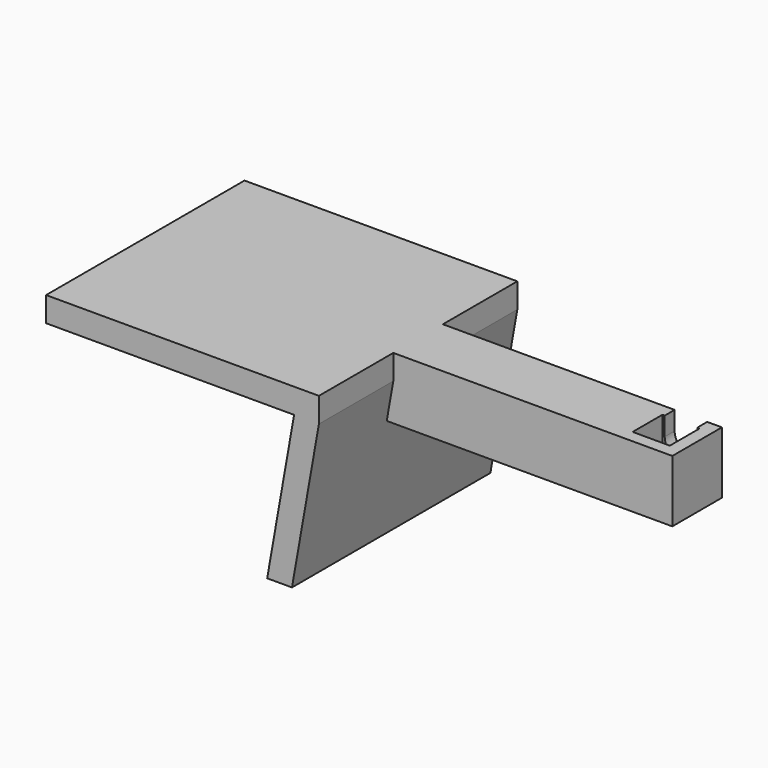
from build123d import *

# Parameters (mm, degrees)
PAD001_DEPTH    = 20
SKETCH004_W     = 39
SKETCH004_H     = 10
PAD_DEPTH       = 10
SKETCH_W        = 10
SKETCH_H        = 10
PAD002_DEPTH    = 10
SKETCH001_W     = 6
SKETCH001_H     = 6
POCKET_DEPTH    = 6
POCKET001_DEPTH = 17.001


with BuildPart() as part:
    # Sketch003 → Pad001 (new body, symmetric)
    with BuildSketch(Plane(origin=(-40, 0, 0), x_dir=(1, 0, 0), z_dir=(0, -1, 0))):
        Polygon((0, 0), (-44, 0), (-44, -4), (-4, -4), (-8.341204, -28.620194), (-4.341204, -28.620194), (0, -4), align=None)
    extrude(amount=PAD001_DEPTH, both=True)

    # Sketch004 → Pad (join)
    with BuildSketch(Plane.XY):
        with Locations((-24.5, 0)):
            Rectangle(SKETCH004_W, SKETCH004_H)
    extrude(amount=-PAD_DEPTH)

    # Sketch → Pad002 (join)
    with BuildSketch(Plane.XY):
        Rectangle(SKETCH_W, SKETCH_H)
    extrude(amount=-PAD002_DEPTH)

    # Sketch001 → Pocket (cut)
    with BuildSketch(Plane.XY):
        Rectangle(SKETCH001_W, SKETCH001_H)
    extrude(amount=-POCKET_DEPTH, mode=Mode.SUBTRACT)

    # Sketch002 → Pocket001 (cut, through all)
    with BuildSketch(Plane.XZ.offset(-3)):
        with BuildLine():
            ThreePointArc((-2.625, -3), (0, -5.625), (2.625, -3))
            Line((2.625, -3), (2.625, 6))
            ThreePointArc((2.625, 6), (0, 8.625), (-2.625, 6))
            Line((-2.625, 6), (-2.625, -3))
        make_face()
    extrude(amount=-POCKET001_DEPTH, mode=Mode.SUBTRACT)


solid = part.part
